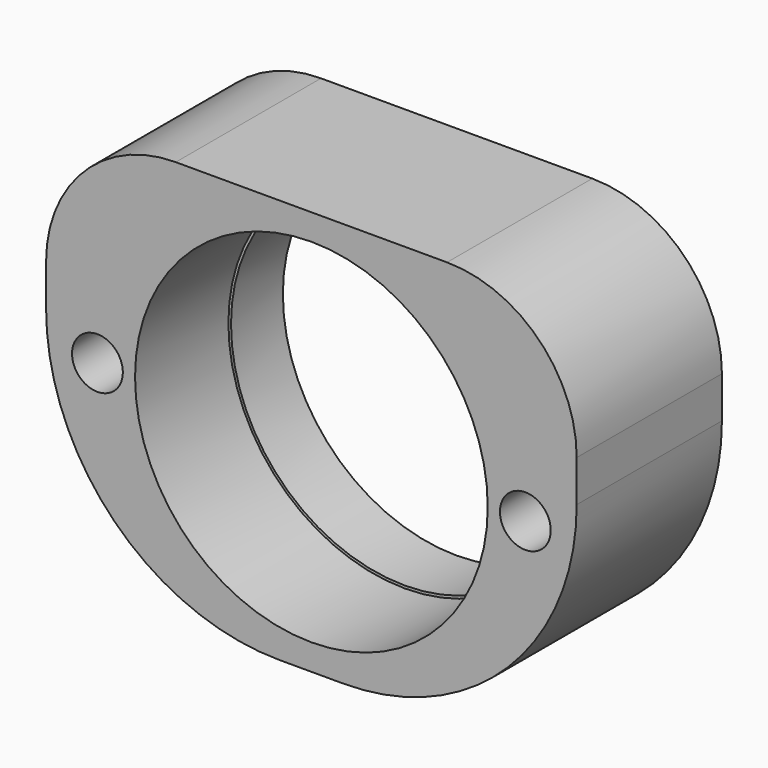
from build123d import *

# Parameters (mm, degrees)
F0_R     = 1.2446
F0_R_2   = 8.636
F1_DEPTH = 8.89
F0_R_3   = 8.509
F2_DEPTH = 3.175


with BuildPart() as f1:
    # F0 (on Front) → F1 (new body)
    with BuildSketch(Plane.XZ):
        with BuildLine():
            Line((6.6421, 9.906), (-6.6421, 9.906))
            ThreePointArc((-6.6421, 9.906), (-11.132228, 8.046128), (-12.9921, 3.556))
            Line((-12.9921, 3.556), (-12.9921, 1.524))
            ThreePointArc((-12.9921, 1.524), (-9.644331, -6.558231), (-1.5621, -9.906))
            Line((-1.5621, -9.906), (1.5621, -9.906))
            ThreePointArc((1.5621, -9.906), (9.644331, -6.558231), (12.9921, 1.524))
            Line((12.9921, 1.524), (12.9921, 3.556))
            ThreePointArc((12.9921, 3.556), (11.132228, 8.046128), (6.6421, 9.906))
        make_face()
        with Locations((-10.4775, 0)):
            Circle(F0_R, mode=Mode.SUBTRACT)
        Circle(F0_R_2, mode=Mode.SUBTRACT)
        with Locations((10.4775, 0)):
            Circle(F0_R, mode=Mode.SUBTRACT)
    extrude(amount=F1_DEPTH)

    # F0 (on Front) → F2 (join)
    with BuildSketch(Plane.XZ):
        Circle(F0_R_2)
        Circle(F0_R_3, mode=Mode.SUBTRACT)
    extrude(amount=F2_DEPTH)


solid = f1.part
